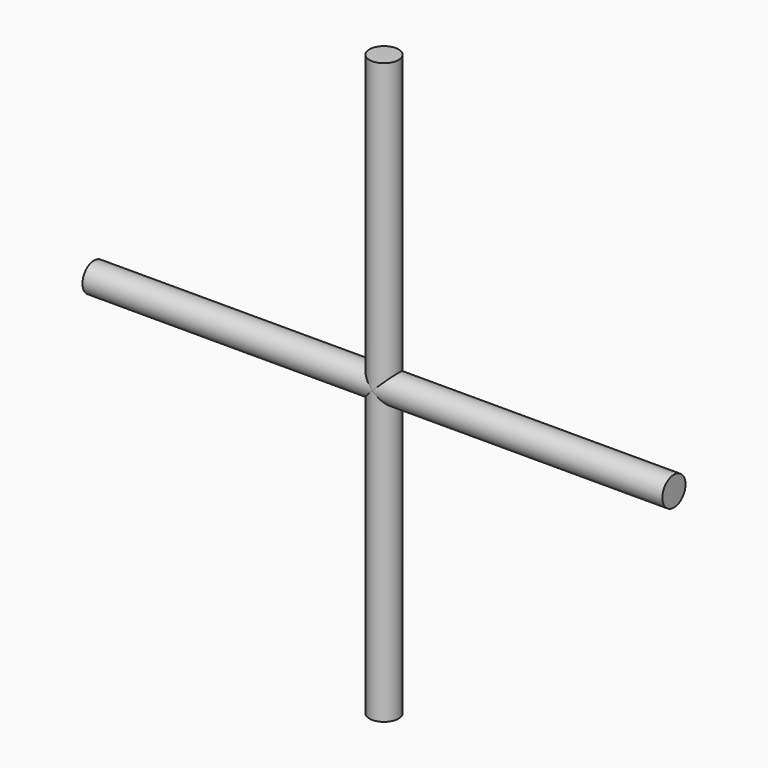
from build123d import *

# Parameters (mm, degrees)
F0_R          = 1.27
F1_DEPTH      = 25.4
F1_DEPTH_BACK = 25.4
F2_R          = 1.27
F3_DEPTH      = 25.4
F3_DEPTH_BACK = 25.4


with BuildPart() as f1:
    # F0 (on Top) → F1 (new body, two sides)
    with BuildSketch(Plane.XY) as f1_sk:
        Circle(F0_R)
    extrude(amount=F1_DEPTH)
    extrude(f1_sk.sketch, amount=-F1_DEPTH_BACK)

    # F2 (on Right) → F3 (join, two sides)
    with BuildSketch(Plane.YZ) as f3_sk:
        Circle(F2_R)
    extrude(amount=F3_DEPTH)
    extrude(f3_sk.sketch, amount=-F3_DEPTH_BACK)


solid = f1.part
